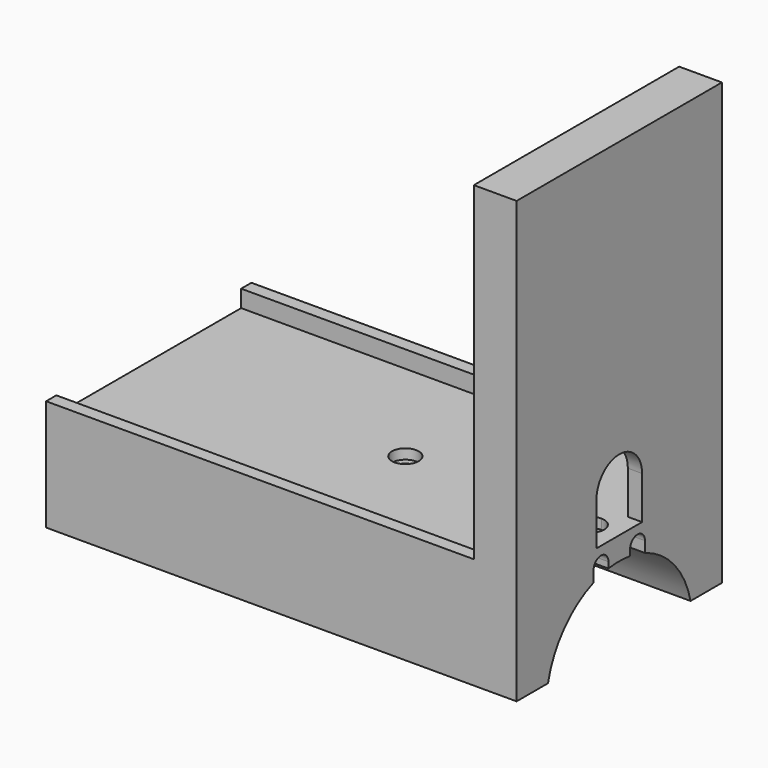
from build123d import *

# Parameters (mm, degrees)
F1_DEPTH  = 160
F3_DEPTH  = 5
F4_W      = 4.5
F4_H      = 110.5
F5_DEPTH  = 10
F6_W      = 15
F6_H      = 90
F7_DEPTH  = 5
F8_R      = 2.5
F9_DEPTH  = 33.001
F8_R_2    = 4.7
F10_DEPTH = 3.5
F11_W     = 10
F11_H     = 15
F12_DEPTH = 5.0010001


with BuildPart() as f1:
    # F0 (on Right) → F1 (new body)
    with BuildSketch(Plane.YZ):
        with BuildLine():
            ThreePointArc((-4.75, 24.6467332166), (-2.3815922354, 24.9122273292), (0, 25.0008889767))
            Line((0, 25.0008889767), (0, 33))
            Line((0, 33), (-40.5, 33))
            Line((-40.5, 33), (-40.5, 39))
            Line((-40.5, 39), (-45, 39))
            Line((-45, 39), (-45, 0))
            Line((-45, 0), (-31.25, 0))
            ThreePointArc((-31.25, 0), (-24.152761856, 14.0086402639), (-11.25, 22.960261782))
            Line((-11.25, 22.960261782), (-11.25, 26.75))
            ThreePointArc((-11.25, 26.75), (-8, 30), (-4.75, 26.75))
            Line((-4.75, 26.75), (-4.75, 24.6467332166))
        make_face()
        with BuildLine():
            Line((0, 33), (0, 25.0008889767))
            ThreePointArc((0, 25.0008889767), (2.3815922354, 24.9122273292), (4.75, 24.6467332166))
            Line((4.75, 24.6467332166), (4.75, 26.75))
            ThreePointArc((4.75, 26.75), (8, 30), (11.25, 26.75))
            Line((11.25, 26.75), (11.25, 22.960261782))
            ThreePointArc((11.25, 22.960261782), (24.152761856, 14.0086402639), (31.25, 0))
            Line((31.25, 0), (45, 0))
            Line((45, 0), (45, 39))
            Line((45, 39), (40.5, 39))
            Line((40.5, 39), (40.5, 33))
            Line((40.5, 33), (0, 33))
        make_face()
    extrude(amount=F1_DEPTH)

    # F2 (on face) → F3 (join)
    with BuildSketch(Plane.YZ.offset(160)):
        with BuildLine():
            ThreePointArc((11.25, 22.960261782), (24.152761856, 14.0086402639), (31.25, 0))
            Line((31.25, 0), (45, 0))
            Line((45, 0), (45, 39))
            Line((45, 39), (40.5, 39))
            Line((40.5, 39), (40.5, 33))
            Line((40.5, 33), (-40.5, 33))
            Line((-40.5, 33), (-40.5, 39))
            Line((-40.5, 39), (-45, 39))
            Line((-45, 39), (-45, 0))
            Line((-45, 0), (-31.25, 0))
            ThreePointArc((-31.25, 0), (-24.152761856, 14.0086402639), (-11.25, 22.960261782))
            Line((-11.25, 22.960261782), (-11.25, 26.75))
            ThreePointArc((-11.25, 26.75), (-8, 30), (-4.75, 26.75))
            Line((-4.75, 26.75), (-4.75, 24.6467332166))
            ThreePointArc((-4.75, 24.6467332166), (0, 25.0008889767), (4.75, 24.6467332166))
            Line((4.75, 24.6467332166), (4.75, 26.75))
            ThreePointArc((4.75, 26.75), (8, 30), (11.25, 26.75))
            Line((11.25, 26.75), (11.25, 22.960261782))
        make_face()
        Polygon((40.5, 39), (45, 39), (45, 149.5), (-45, 149.5), (-45, 39), (-40.5, 39), (-40.5, 33), (40.5, 33), align=None)
    extrude(amount=F3_DEPTH)

    # F4 (on face) → F5 (join)
    with BuildSketch(Plane(origin=(160, 0, 0), x_dir=(0, -1, 0), z_dir=(-1, 0, 0))):
        with Locations((-42.75, 94.25)):
            Rectangle(F4_W, F4_H)
        with Locations((42.75, 94.25)):
            Rectangle(F4_W, F4_H)
    extrude(amount=F5_DEPTH)

    # F6 (on face) → F7 (join)
    with BuildSketch(Plane.XY.offset(149.5)):
        with Locations((157.5, 0)):
            Rectangle(F6_W, F6_H)
    extrude(amount=F7_DEPTH)

    # F8 (on face) → F9 (cut, through all)
    with BuildSketch(Plane.XY.offset(33)):
        with BuildLine():
            Line((155, 2.5), (155, -2.5))
            ThreePointArc((155, -2.5), (156.767766953, -1.767766953), (157.5, 0))
            ThreePointArc((157.5, 0), (156.767766953, 1.767766953), (155, 2.5))
        make_face()
        with BuildLine():
            ThreePointArc((155, 2.5), (152.5, 0), (155, -2.5))
            Line((155, -2.5), (155, 2.5))
        make_face()
        with Locations((90, 0)):
            Circle(F8_R)
    extrude(amount=-F9_DEPTH, mode=Mode.SUBTRACT)

    # F8 (on face) → F10 (cut)
    with BuildSketch(Plane.XY.offset(33)):
        with BuildLine():
            ThreePointArc((155, 4.7), (150.3, 0), (155, -4.7))
            Line((155, -4.7), (155, -2.5))
            ThreePointArc((155, -2.5), (152.5, 0), (155, 2.5))
            Line((155, 2.5), (155, 4.7))
        make_face()
        with BuildLine():
            Line((155, -2.5), (155, -4.7))
            ThreePointArc((155, -4.7), (158.3234018716, -3.3234018716), (159.7, 0))
            ThreePointArc((159.7, 0), (158.3234018716, 3.3234018716), (155, 4.7))
            Line((155, 4.7), (155, 2.5))
            ThreePointArc((155, 2.5), (156.767766953, 1.767766953), (157.5, 0))
            ThreePointArc((157.5, 0), (156.767766953, -1.767766953), (155, -2.5))
        make_face()
        with Locations((90, 0)):
            Circle(F8_R_2)
        with Locations((90, 0)):
            Circle(F8_R, mode=Mode.SUBTRACT)
    extrude(amount=-F10_DEPTH, mode=Mode.SUBTRACT)

    # F11 (on face) → F12 (cut, through all)
    with BuildSketch(Plane(origin=(160, 0, 0), x_dir=(0, -1, 0), z_dir=(-1, 0, 0))):
        with Locations((5, 40.5)):
            Rectangle(F11_W, F11_H)
        with Locations((-5, 40.5)):
            Rectangle(F11_W, F11_H)
        with BuildLine():
            Line((0, 48), (10, 48))
            ThreePointArc((10, 48), (7.071067816, 55.0710678077), (1.18e-08, 58))
            Line((0, 58), (0, 48))
        make_face()
        with BuildLine():
            Line((-10, 48), (0, 48))
            Line((0, 48), (0, 58))
            ThreePointArc((1.18e-08, 58), (-7.0710678077, 55.071067816), (-10, 48))
        make_face()
    extrude(amount=-F12_DEPTH, mode=Mode.SUBTRACT)


solid = f1.part
